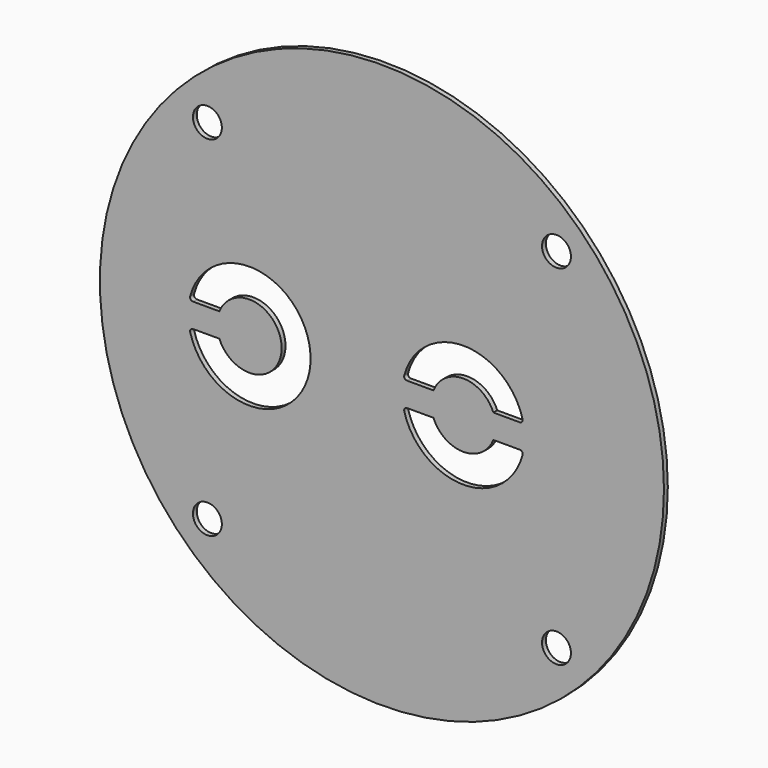
from build123d import *

# Parameters (mm, degrees)
F0_R     = 29.25
F1_DEPTH = 0.5
F2_D     = 3


with BuildPart() as f1:
    # F0 (on Front) → F1 (new body)
    with BuildSketch(Plane.XZ):
        Circle(F0_R)
        with BuildLine():
            ThreePointArc((14.588064, -1.62686), (8.45, -6.35), (2.311936, -1.62686))
            ThreePointArc((2.311936, -1.62686), (2.364165, -1.367049), (2.601923, -1.25))
            Line((2.601923, -1.25), (5.341946, -1.25))
            ThreePointArc((5.341946, -1.25), (8.45, -3.35), (11.558054, -1.25))
            Line((11.558054, -1.25), (14.298077, -1.25))
            ThreePointArc((14.298077, -1.25), (14.535835, -1.367049), (14.588064, -1.62686))
        make_face(mode=Mode.SUBTRACT)
        with BuildLine():
            ThreePointArc((-19.888064, 1.62686), (-7.4, 0), (-19.888064, -1.62686))
            ThreePointArc((-19.888064, -1.62686), (-19.835835, -1.367049), (-19.598077, -1.25))
            Line((-19.598077, -1.25), (-16.858054, -1.25))
            ThreePointArc((-16.858054, -1.25), (-10.4, 0), (-16.858054, 1.25))
            Line((-16.858054, 1.25), (-19.598077, 1.25))
            ThreePointArc((-19.598077, 1.25), (-19.835835, 1.367049), (-19.888064, 1.62686))
        make_face(mode=Mode.SUBTRACT)
        with BuildLine():
            Line((5.341946, 1.25), (2.601923, 1.25))
            ThreePointArc((2.601923, 1.25), (2.364165, 1.367049), (2.311936, 1.62686))
            ThreePointArc((2.311936, 1.62686), (8.45, 6.35), (14.588064, 1.62686))
            ThreePointArc((14.588064, 1.62686), (14.535835, 1.367049), (14.298077, 1.25))
            Line((14.298077, 1.25), (11.558054, 1.25))
            ThreePointArc((11.558054, 1.25), (8.45, 3.35), (5.341946, 1.25))
        make_face(mode=Mode.SUBTRACT)
    extrude(amount=F1_DEPTH)

    # F2 (through all)
    with Locations(Plane(origin=(0, 0, 0), x_dir=(1, 0, 0), z_dir=(0, 1, 0))):
        with Locations((-18.101934, 18.101934), (18.101934, 18.101934), (18.101934, -18.101934), (-18.101934, -18.101934)):
            Hole(F2_D / 2)


solid = f1.part
